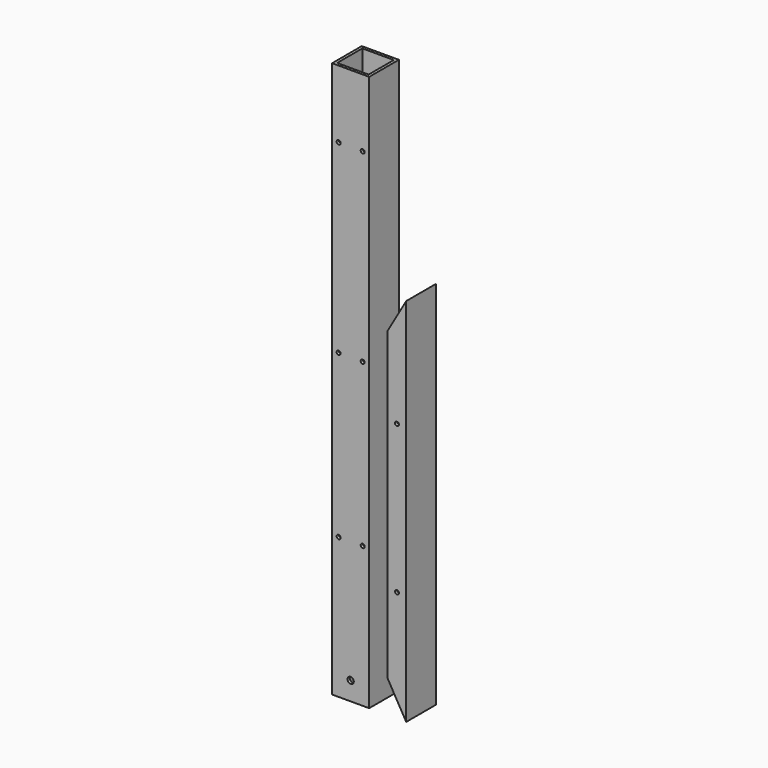
from build123d import *

# Parameters (mm, degrees)
F0_W      = 40
F0_H      = 40
F0_W_2    = 34
F0_H_2    = 34
F1_DEPTH  = 600
F0_W_3    = 20
F0_W_4    = 14
F2_DEPTH  = 400
F4_DEPTH  = 40.001
F5_R      = 2.15
F5_R_2    = 3.4
F6_DEPTH  = 25
F7_R      = 2
F8_DEPTH  = 25
F9_R      = 3.4
F9_R_2    = 2.15
F10_DEPTH = 25
F11_R     = 2.1
F12_DEPTH = 40.001


with BuildPart() as f1:
    # F0 (on Top) → F1 (new body)
    with BuildSketch(Plane.XY):
        with Locations((-30, 0)):
            Rectangle(F0_W, F0_H)
        with Locations((-30, 0)):
            Rectangle(F0_W_2, F0_H_2, mode=Mode.SUBTRACT)
    extrude(amount=F1_DEPTH)

    # F5 (on face) → F6 (cut)
    with BuildSketch(Plane.XZ.offset(20)):
        with Locations((-43, 527)):
            Circle(F5_R)
        with Locations((-17, 527)):
            Circle(F5_R)
        with Locations((-43, 327)):
            Circle(F5_R)
        with Locations((-17, 327)):
            Circle(F5_R)
        with Locations((-43, 152)):
            Circle(F5_R)
        with Locations((-17, 152)):
            Circle(F5_R)
        with Locations((-30, 20)):
            Circle(F5_R_2)
    extrude(amount=-F6_DEPTH, mode=Mode.SUBTRACT)

    # F7 (on face) → F8 (cut)
    with BuildSketch(Plane(origin=(-50, 0, 0), x_dir=(0, -1, 0), z_dir=(-1, 0, 0))):
        with Locations((14, 550)):
            Circle(F7_R)
        with Locations((14, 540)):
            Circle(F7_R)
    extrude(amount=-F8_DEPTH, mode=Mode.SUBTRACT)

    # F9 (on face) → F10 (cut)
    with BuildSketch(Plane(origin=(0, 20, 0), x_dir=(-1, 0, 0), z_dir=(0, 1, 0))):
        with Locations((30, 140)):
            Circle(F9_R)
        with Locations((20, 200)):
            Circle(F9_R_2)
        with Locations((20, 248)):
            Circle(F9_R_2)
    extrude(amount=-F10_DEPTH, mode=Mode.SUBTRACT)


with BuildPart() as f2:
    # F0 (on Top) → F2 (new body)
    with BuildSketch(Plane.XY):
        with Locations((20, 0)):
            Rectangle(F0_W_3, F0_H)
        with Locations((20, 0)):
            Rectangle(F0_W_4, F0_H_2, mode=Mode.SUBTRACT)
    extrude(amount=F2_DEPTH)

    # F3 (on face) → F4 (cut, through all)
    with BuildSketch(Plane.XZ.offset(20)):
        Polygon((10, 365.358984), (30, 400), (10, 400), align=None)
        Polygon((10, 0), (30, 0), (10, 34.641016), align=None)
    extrude(amount=-F4_DEPTH, mode=Mode.SUBTRACT)

    # F11 (on face) → F12 (cut, through all)
    with BuildSketch(Plane.XZ.offset(20)):
        with Locations((20, 280)):
            Circle(F11_R)
        with Locations((20, 120)):
            Circle(F11_R)
    extrude(amount=-F12_DEPTH, mode=Mode.SUBTRACT)


solid = Compound([f1.part, f2.part])
